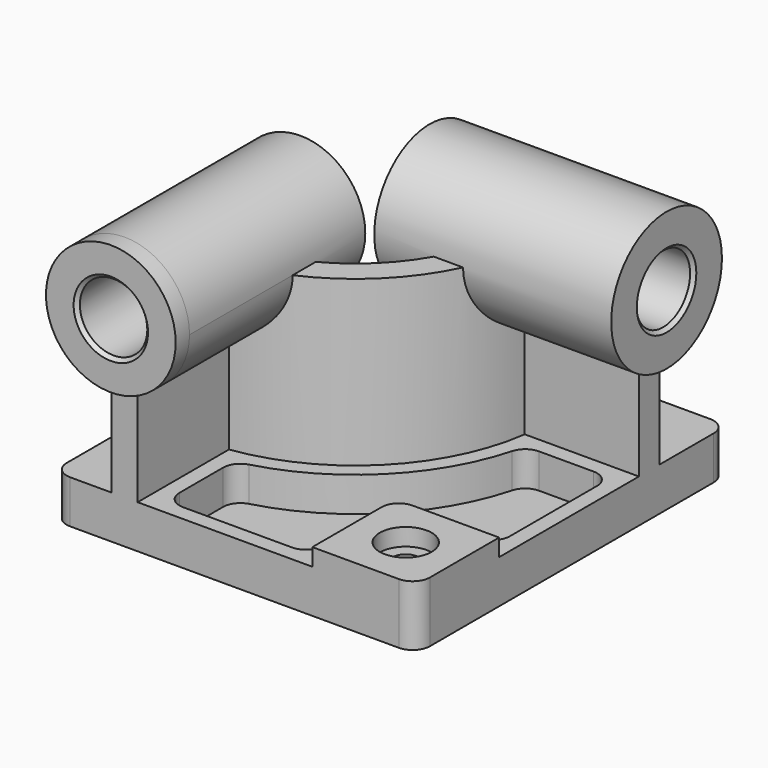
from build123d import *

# Parameters (mm, degrees)
F0_W            = 210
F0_H            = 225
F1_DEPTH        = 25
F3_DEPTH        = 95
F4_R            = 37.5
F5_DEPTH        = 10
F5_DEPTH_BACK   = 127
F6_R            = 40
F7_DEPTH        = 10
F7_DEPTH_BACK   = 127
F8_W            = 60
F8_H            = 60
F9_DEPTH        = 10
F10_R           = 10
F12_DEPTH       = 20
F14_D           = 15
F14_CBORE_D     = 30
F14_CBORE_DEPTH = 10
F15_R           = 10
F16_R           = 19.5
F17_DEPTH       = 235.001
F18_R           = 19.5
F19_DEPTH       = 220.001
F20_SIZE        = 2
F21_R           = 10


with BuildPart() as f1:
    # F0 (on Top) → F1 (new body)
    with BuildSketch(Plane.XY):
        Rectangle(F0_W, F0_H)
    extrude(amount=F1_DEPTH)

    # F2 (on face) → F3 (join)
    with BuildSketch(Plane.XY.offset(25)):
        with BuildLine():
            Line((-71, -32.5), (-71, -112.5))
            Line((-71, -112.5), (-56, -112.5))
            Line((-56, -112.5), (-56, -46.481817))
            ThreePointArc((-56, -46.481817), (7.488853, -14.988853), (38.981817, 48.5))
            Line((38.981817, 48.5), (105, 48.5))
            Line((105, 48.5), (105, 63.5))
            Line((105, 63.5), (25, 63.5))
            ThreePointArc((25, 63.5), (-3.117749, -4.382251), (-71, -32.5))
        make_face()
    extrude(amount=F3_DEPTH)

    # F4 (on face) → F5 (join, two sides)
    with BuildSketch(Plane.XZ.offset(112.5)) as f5_sk:
        with Locations((-63.5, 120)):
            Circle(F4_R)
    extrude(amount=F5_DEPTH)
    extrude(f5_sk.sketch, amount=-F5_DEPTH_BACK)

    # F6 (on face) → F7 (join, two sides)
    with BuildSketch(Plane.YZ.offset(105)) as f7_sk:
        with Locations((56, 120)):
            Circle(F6_R)
    extrude(amount=F7_DEPTH)
    extrude(f7_sk.sketch, amount=-F7_DEPTH_BACK)

    # F8 (on face) → F9 (join)
    with BuildSketch(Plane.XY.offset(25)):
        with Locations((75, -82.5)):
            Rectangle(F8_W, F8_H)
    extrude(amount=F9_DEPTH)

    # F10
    f10_edges = [f1.edges().sort_by_distance(p)[0] for p in [
        (45, -52.5, 30),
    ]]
    fillet(f10_edges, radius=F10_R)

    # F11 (on face) → F12 (cut)
    with BuildSketch(Plane.XY.offset(25)):
        with BuildLine():
            ThreePointArc((46.575508, 39.5), (13.852814, -21.352814), (-47, -54.075508))
            Line((-47, -54.075508), (-47, -103.5))
            Line((-47, -103.5), (36, -103.5))
            Line((36, -103.5), (36, -62.5))
            ThreePointArc((36, -62.5), (41.564971, -49.064971), (55, -43.5))
            Line((55, -43.5), (96, -43.5))
            Line((96, -43.5), (96, 39.5))
            Line((96, 39.5), (46.575508, 39.5))
        make_face()
    extrude(amount=-F12_DEPTH, mode=Mode.SUBTRACT)

    # F14 (through all)
    with Locations(Plane.XY.offset(35)):
        with Locations((75, -82.5)):
            CounterBoreHole(F14_D / 2, F14_CBORE_D / 2, F14_CBORE_DEPTH)

    # F15
    f15_edges = [f1.edges().sort_by_distance(p)[0] for p in [
        (-47, -54.075508, 15),
        (46.575508, 39.5, 15),
        (36, -103.5, 15),
        (96, -43.5, 15),
        (96, 39.5, 15),
        (-47, -103.5, 15),
    ]]
    fillet(f15_edges, radius=F15_R)

    # F16 (on face) → F17 (cut, through all)
    with BuildSketch(Plane.XZ.offset(122.5)):
        with Locations((-63.5, 120)):
            Circle(F16_R)
    extrude(amount=-F17_DEPTH, mode=Mode.SUBTRACT)

    # F18 (on face) → F19 (cut, through all)
    with BuildSketch(Plane.YZ.offset(115)):
        with Locations((56, 120)):
            Circle(F18_R)
    extrude(amount=-F19_DEPTH, mode=Mode.SUBTRACT)

    # F20
    f20_edges = [f1.edges().sort_by_distance(p)[0] for p in [
        (-83, -122.5, 120),
        (115, 36.5, 120),
        (-83, 14.5, 120),
        (-22, 36.5, 120),
    ]]
    chamfer(f20_edges, length=F20_SIZE)

    # F21
    f21_edges = [f1.edges().sort_by_distance(p)[0] for p in [
        (-105, 112.5, 12.5),
        (105, 112.5, 12.5),
        (105, -112.5, 17.5),
        (-105, -112.5, 12.5),
    ]]
    fillet(f21_edges, radius=F21_R)


solid = f1.part
